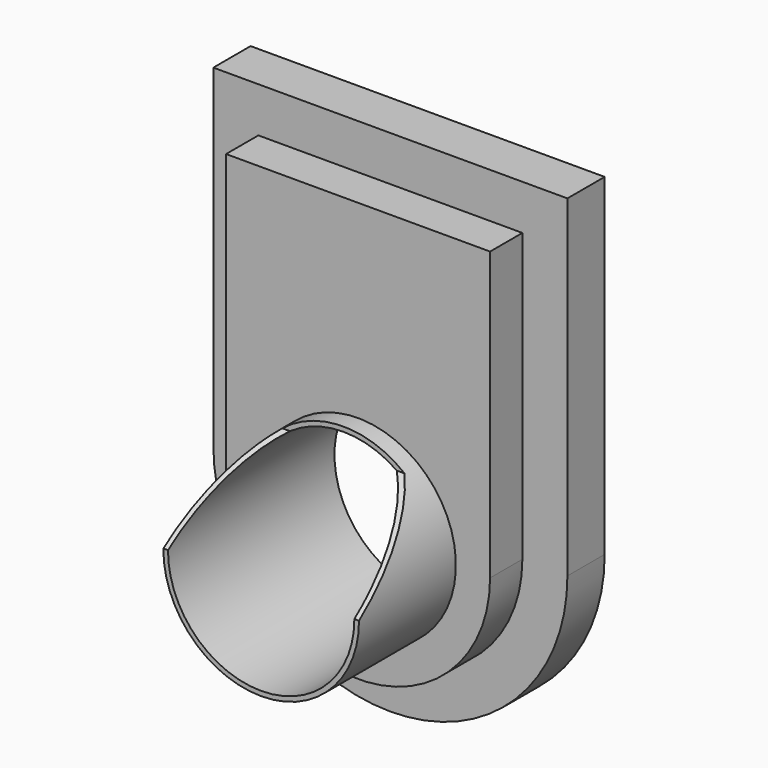
from build123d import *

# Parameters (mm, degrees)
F1_DEPTH = 1.5
F3_DEPTH = 1.3
F5_DEPTH = 3.9
F6_R     = 3
F7_DEPTH = 6.701
F9_DEPTH = 25


with BuildPart() as f1:
    # F0 (on Front) → F1 (new body)
    with BuildSketch(Plane.XZ):
        with BuildLine():
            Line((-5.7, 10.7), (-5.7, 0))
            ThreePointArc((-5.7, 0), (-4.030509, -4.030509), (0, -5.7))
            ThreePointArc((0, -5.7), (4.030509, -4.030509), (5.7, 0))
            Line((5.7, 0), (5.7, 10.7))
            Line((5.7, 10.7), (-5.7, 10.7))
        make_face()
    extrude(amount=F1_DEPTH)

    # F2 (on face) → F3 (join)
    with BuildSketch(Plane.XZ.offset(1.5)):
        with BuildLine():
            Line((4.25, 0), (4.25, 9.25))
            Line((4.25, 9.25), (-4.25, 9.25))
            Line((-4.25, 9.25), (-4.25, 0))
            ThreePointArc((-4.25, 0), (0, -4.25), (4.25, 0))
        make_face()
    extrude(amount=F3_DEPTH)

    # F4 (on face) → F5 (join)
    with BuildSketch(Plane.XZ.offset(2.8)):
        with BuildLine():
            ThreePointArc((3.15, 0), (0, 3.15), (-3.15, 0))
            ThreePointArc((-3.15, 0), (0, -3.15), (3.15, 0))
        make_face()
    extrude(amount=F5_DEPTH)

    # F6 (on face) → F7 (cut, through all)
    with BuildSketch(Plane.XZ.offset(6.7)):
        Circle(F6_R)
    extrude(amount=-F7_DEPTH, mode=Mode.SUBTRACT)

    # F8 (on face) → F9 (cut)
    with BuildSketch(Plane(origin=(-4.25, 0, 0), x_dir=(0, -1, 0), z_dir=(-1, 0, 0))):
        Polygon((3.389618, 4.891665), (3.389618, 2.457727), (6.718387, 0), (7.86377, 0), (7.899563, 4.891665), align=None)
    extrude(amount=-F9_DEPTH, mode=Mode.SUBTRACT)


solid = f1.part
